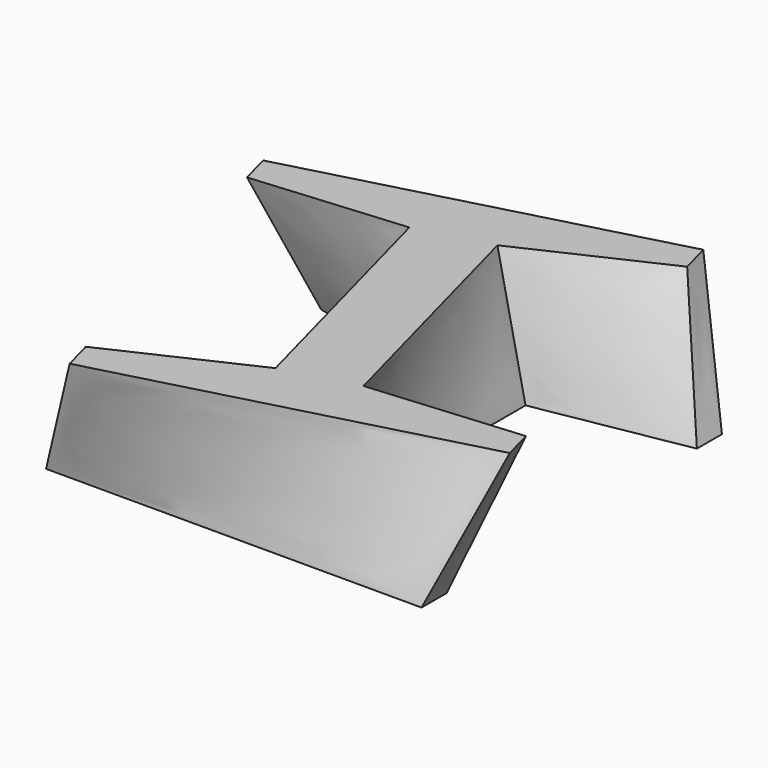
from build123d import *


with BuildPart() as f3:
    # F0 (on Top) → F3 section 0
    with BuildSketch(Plane.XY):
        Polygon((76.2, 0), (38.1, 0), (0, 0), (0, -6.35), (30.48, -11.724446372), (30.48, -64.475553628), (0, -69.85), (0, -76.2), (38.1, -76.2), (76.2, -76.2), (76.2, -69.85), (45.72, -64.475553628), (45.72, -11.724446372), (76.2, -6.35), align=None)
    # F2 (on offset) → F3 section 1
    with BuildSketch(Plane.XY.offset(25.4)):
        Polygon((28.0150895138, -0.3297863845), (-8.7984613693, -10.1467345546), (-7.162303341, -16.2823263685), (23.67333163, -13.6217456535), (37.2653233846, -64.5917081499), (9.1992769425, -77.6382445071), (10.8354349709, -83.7738363209), (47.648985854, -73.9568881508), (84.4625367372, -64.1399399807), (82.8263787088, -58.0043481669), (51.9907437378, -60.6649288818), (38.3987519833, -9.6949663855), (66.4647984253, 3.3515699717), (64.828640397, 9.4871617856), align=None)
    loft()


solid = f3.part
